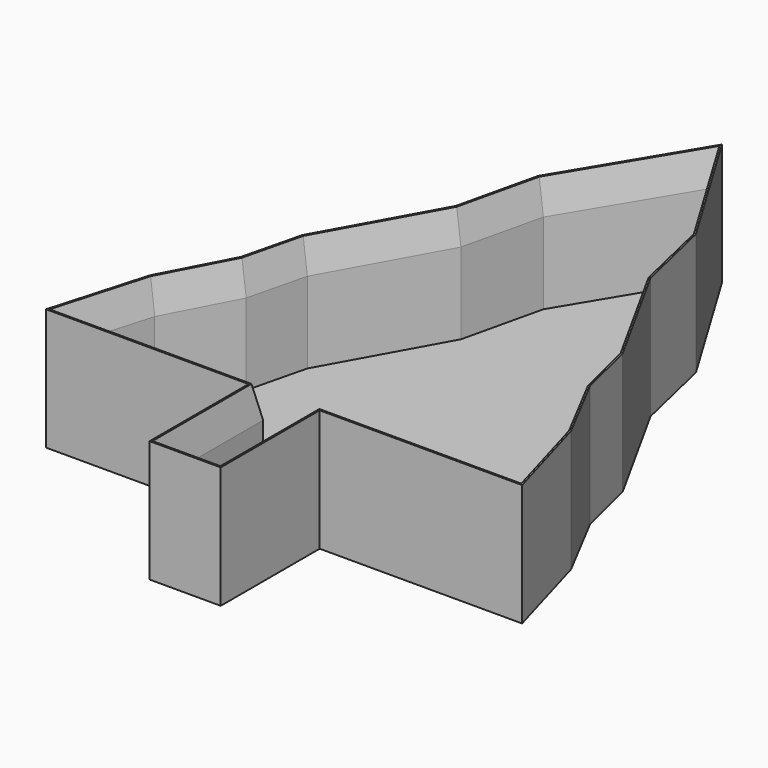
from build123d import *

# Parameters (mm, degrees)
F1_DEPTH = 19.05
F2_T     = -1.27
F3_SIZE2 = 5.08
F3_SIZE  = 1.016


with BuildPart() as f1:
    # F0 (on Top) → F1 (new body)
    with BuildSketch(Plane.XY):
        Polygon((12.3290219964, 27.8594800581), (0, 48.3482889831), (-12.3290219964, 27.8594800581), (-15.2382130133, 15.3499666007), (-25.0549837339, -2.3781927895), (-27.2975303233, -11.5522462875), (-32.9452939332, -22.3343409598), (-37.2179499745, -37.2239015996), (-5.5621927604, -37.2239015996), (-5.5621927604, -56.5632171929), (0, -56.5632171929), (5.5621927604, -56.5632171929), (5.5621927604, -37.2239015996), (37.2179499745, -37.2239015996), (32.9452939332, -22.3343409598), (27.2975303233, -11.5522462875), (25.0549837339, -2.3781927895), (15.2382130133, 15.3499666007), align=None)
    extrude(amount=F1_DEPTH)

    # F2
    f2_openings = [f1.faces().sort_by_distance(p)[0] for p in [
        (0, -9.615745, 19.05),
    ]]
    offset(amount=F2_T, openings=f2_openings, kind=Kind.INTERSECTION)

    # F3
    f3_edges = [f1.edges().sort_by_distance(p)[0] for p in [
        (4.292193, -45.623559, 19.05),
        (19.912227, -35.953902, 19.05),
        (-4.292193, -45.623559, 19.05),
        (0, -55.293217, 19.05),
        (-19.912227, -35.953902, 19.05),
        (33.646255, -29.381456, 19.05),
        (28.930445, -17.406656, 19.05),
        (24.981144, -7.424546, 19.05),
        (18.951501, 6.022471, 19.05),
        (12.589404, 21.133113, 19.05),
        (5.568727, 36.630802, 19.05),
        (-5.568727, 36.630802, 19.05),
        (-12.589404, 21.133113, 19.05),
        (-18.951501, 6.022471, 19.05),
        (-24.981144, -7.424546, 19.05),
        (-28.930445, -17.406656, 19.05),
        (-33.646255, -29.381456, 19.05),
    ]]
    chamfer(f3_edges, length=F3_SIZE, length2=F3_SIZE2)


solid = f1.part
